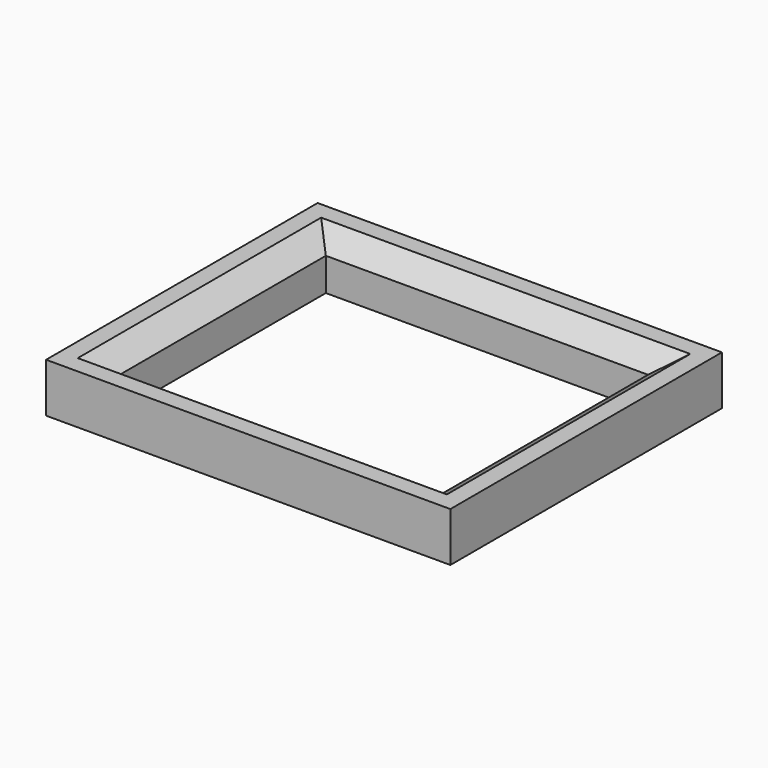
from build123d import *

# Parameters (mm, degrees)
F0_W     = 98.5
F0_H     = 82.7
F0_W_2   = 78.5
F0_H_2   = 62.7
F1_DEPTH = 12
F2_SIZE2 = 5.712592
F2_SIZE  = 4


with BuildPart() as f1:
    # F0 (on Top) → F1 (new body)
    with BuildSketch(Plane.XY):
        with Locations((39.25, -31.35)):
            Rectangle(F0_W, F0_H)
        with Locations((39.25, -31.35)):
            Rectangle(F0_W_2, F0_H_2, mode=Mode.SUBTRACT)
    extrude(amount=F1_DEPTH)

    # F2
    f2_edges = [f1.edges().sort_by_distance(p)[0] for p in [
        (39.25, -62.7, 12),
        (78.5, -31.35, 12),
        (39.25, 0, 12),
        (0, -31.35, 12),
    ]]
    chamfer(f2_edges, length=F2_SIZE, length2=F2_SIZE2)


solid = f1.part
